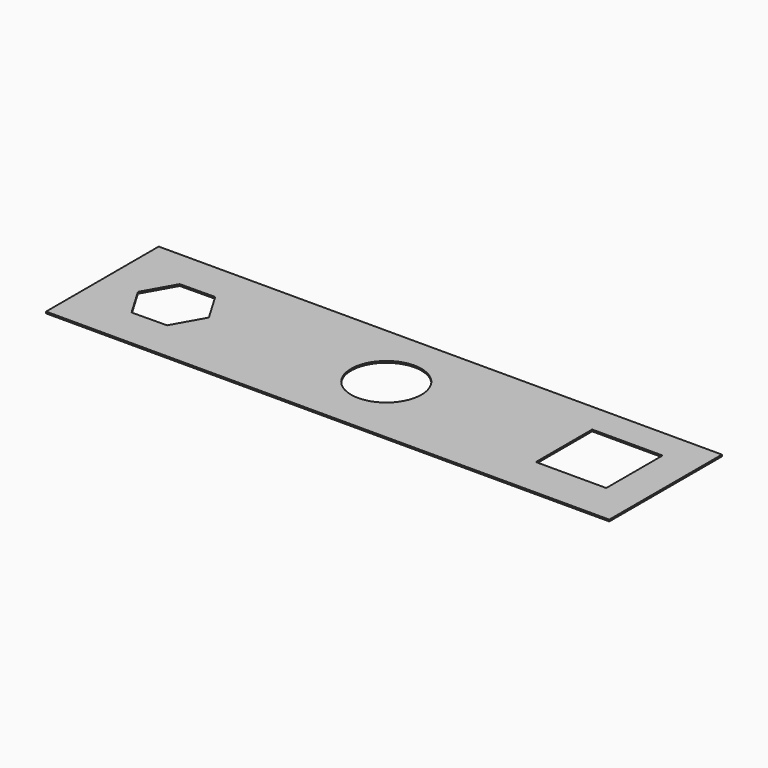
from build123d import *

# Parameters (mm, degrees)
F0_W     = 101.6
F0_H     = 25.4
F0_R     = 6.35
F0_W_2   = 12.7
F0_H_2   = 12.7
F1_DEPTH = 0.3


with BuildPart() as f1:
    # F0 (on Top) → F1 (new body)
    with BuildSketch(Plane.XY):
        with Locations((50.8, 12.7)):
            Rectangle(F0_W, F0_H)
        Polygon((9.469252, 18.295827), (15.818924, 18.360389), (19.049672, 12.893693), (15.930748, 7.362435), (9.581076, 7.297873), (6.350328, 12.764569), align=None, mode=Mode.SUBTRACT)
        with Locations((50.8, 13.216523)):
            Circle(F0_R, mode=Mode.SUBTRACT)
        with Locations((88.9, 13.603915)):
            Rectangle(F0_W_2, F0_H_2, mode=Mode.SUBTRACT)
    extrude(amount=F1_DEPTH)


solid = f1.part
